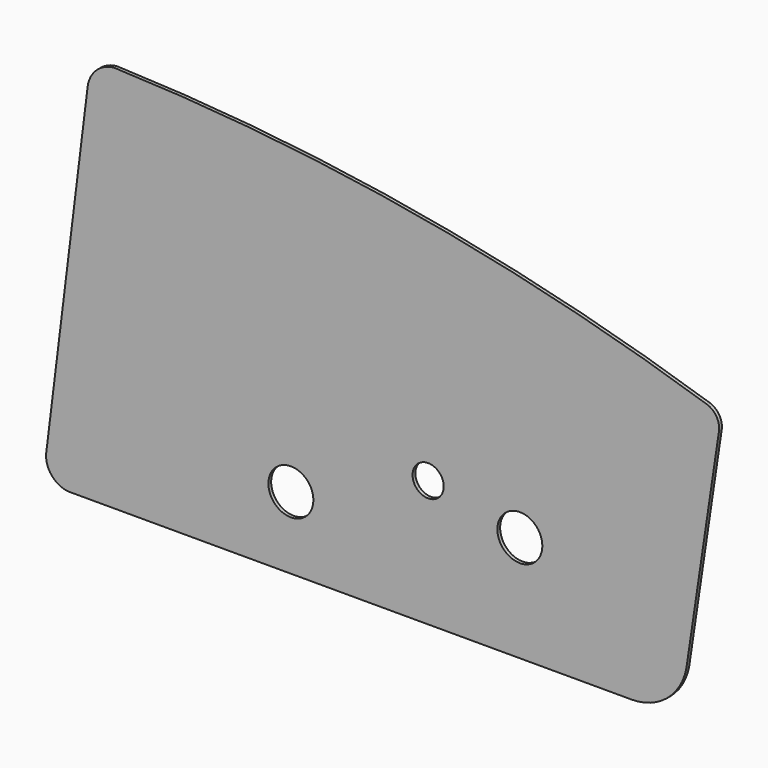
from build123d import *

# Parameters (mm, degrees)
F1_DEPTH = 1.016
F0_R     = 6.604
F0_R_2   = 11.590192
F0_R_3   = 6.096
F0_R_4   = 4.572
F2_DEPTH = 1.016


with BuildPart() as f1:
    # F0 (on Front) → F1 (new body)
    with BuildSketch(Plane.XZ):
        with BuildLine():
            ThreePointArc((71.748899, -48.69655), (82.234953, -44.90898), (87.880266, -35.294748))
            Line((87.880266, -35.294748), (97.438355, 29.049238))
            ThreePointArc((97.438355, 29.049238), (96.779702, 32.50332), (94.114392, 34.796925))
            ThreePointArc((94.114392, 34.796925), (8.063382, 56.200754), (-80.144331, 65.272659))
            ThreePointArc((-80.144331, 65.272659), (-85.435827, 62.950768), (-88.040151, 57.792414))
            Line((-88.040151, 57.792414), (-100.186102, -40.73111))
            ThreePointArc((-100.186102, -40.73111), (-98.290515, -46.492526), (-92.639901, -48.69655))
            Line((-92.639901, -48.69655), (71.748899, -48.69655))
        make_face()
        with BuildLine():
            ThreePointArc((-68.658263, 50.559288), (4.937485, 42.307161), (77.003889, 25.252396))
            ThreePointArc((77.003889, 25.252396), (80.533579, 22.574015), (81.452525, 18.239506))
            Line((81.452525, 18.239506), (74.024657, -31.764068))
            ThreePointArc((74.024657, -31.764068), (72.957694, -33.701903), (70.884118, -34.472551))
            Line((70.884118, -34.472551), (33.536372, -34.472551))
            ThreePointArc((33.536372, -34.472551), (31.558624, -34.788397), (29.77762, -35.704516))
            ThreePointArc((29.77762, -35.704516), (11.863571, -41.576006), (-6.050479, -35.704516))
            ThreePointArc((-6.050479, -35.704516), (-7.831482, -34.788397), (-9.80923, -34.472551))
            Line((-9.80923, -34.472551), (-81.49242, -34.472551))
            ThreePointArc((-81.49242, -34.472551), (-83.870868, -33.40079), (-84.643565, -30.909079))
            Line((-84.643565, -30.909079), (-75.286183, 44.994587))
            ThreePointArc((-75.286183, 44.994587), (-73.066979, 49.080863), (-68.658263, 50.559288))
        make_face(mode=Mode.SUBTRACT)
    extrude(amount=F1_DEPTH)

    # F0 (on Front) → F2 (join)
    with BuildSketch(Plane.XZ):
        with BuildLine():
            ThreePointArc((81.452525, 18.239506), (80.533579, 22.574015), (77.003889, 25.252396))
            ThreePointArc((77.003889, 25.252396), (4.937485, 42.307161), (-68.658263, 50.559288))
            ThreePointArc((-68.658263, 50.559288), (-73.066979, 49.080863), (-75.286183, 44.994587))
            Line((-75.286183, 44.994587), (-84.643565, -30.909079))
            ThreePointArc((-84.643565, -30.909079), (-83.870868, -33.40079), (-81.49242, -34.472551))
            Line((-81.49242, -34.472551), (-9.80923, -34.472551))
            ThreePointArc((-9.80923, -34.472551), (-7.831482, -34.788397), (-6.050479, -35.704516))
            ThreePointArc((-6.050479, -35.704516), (11.863571, -41.576006), (29.77762, -35.704516))
            ThreePointArc((29.77762, -35.704516), (31.558624, -34.788397), (33.536372, -34.472551))
            Line((33.536372, -34.472551), (70.884118, -34.472551))
            ThreePointArc((70.884118, -34.472551), (72.957694, -33.701903), (74.024657, -31.764068))
            Line((74.024657, -31.764068), (81.452525, 18.239506))
        make_face()
        with Locations((-28.321732, -27.52208)):
            Circle(F0_R, mode=Mode.SUBTRACT)
        with Locations((11.999482, -11.534391)):
            Circle(F0_R_2, mode=Mode.SUBTRACT)
        with Locations((38.945176, -17.489335)):
            Circle(F0_R, mode=Mode.SUBTRACT)
        with Locations((11.999482, -11.534391)):
            Circle(F0_R_2)
        with Locations((11.999482, -11.534391)):
            Circle(F0_R_3, mode=Mode.SUBTRACT)
        with Locations((11.999482, -11.534391)):
            Circle(F0_R_3)
        with Locations((11.999482, -11.534391)):
            Circle(F0_R_4, mode=Mode.SUBTRACT)
    extrude(amount=F2_DEPTH)


solid = f1.part
